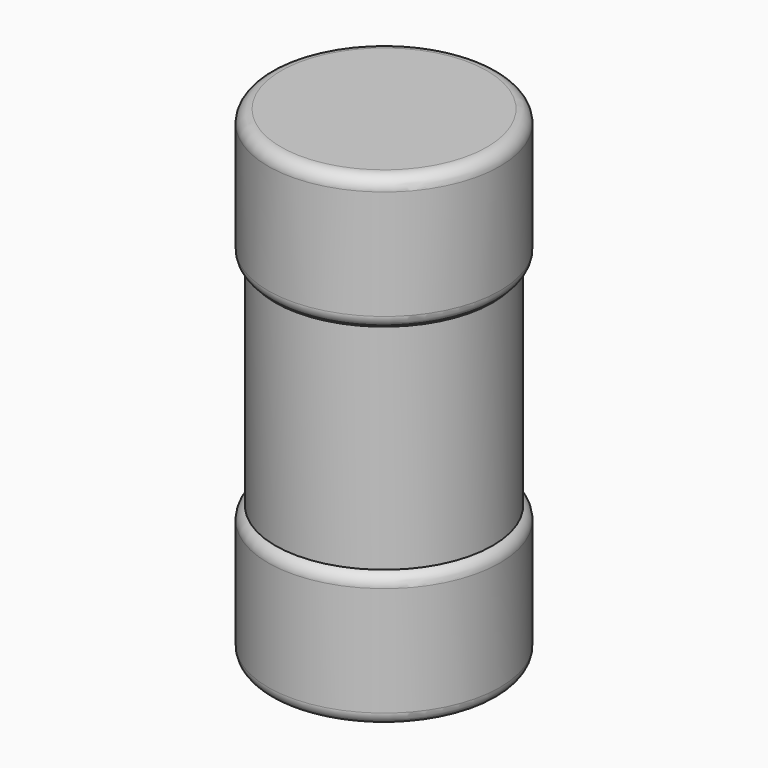
from build123d import *

# Parameters (mm, degrees)
F0_R     = 13.55
F1_DEPTH = 15.8
F2_R     = 12.7
F3_DEPTH = 25
F4_R     = 13.55
F5_DEPTH = 15.8
F6_R     = 1.5
F6_2_R   = 1.5


with BuildPart() as f1:
    # F0 (on Top) → F1 (new body)
    with BuildSketch(Plane.XY):
        Circle(F0_R)
    extrude(amount=F1_DEPTH)

    # F6#2
    f6_2_edges = [f1.edges().sort_by_distance(p)[0] for p in [
        (-13.55, 0, 0),
        (-13.55, 0, 15.8),
    ]]
    fillet(f6_2_edges, radius=F6_2_R)


with BuildPart() as f3:
    # F2 (on face) → F3 (new body)
    with BuildSketch(Plane.XY.offset(15.8)):
        Circle(F2_R)
    extrude(amount=F3_DEPTH)


with BuildPart() as f5:
    # F4 (on face) → F5 (new body)
    with BuildSketch(Plane.XY.offset(40.8)):
        Circle(F4_R)
    extrude(amount=F5_DEPTH)

    # F6
    f6_edges = [f5.edges().sort_by_distance(p)[0] for p in [
        (-13.55, 0, 56.6),
        (-13.55, 0, 40.8),
    ]]
    fillet(f6_edges, radius=F6_R)


solid = Compound([f1.part, f3.part, f5.part])
